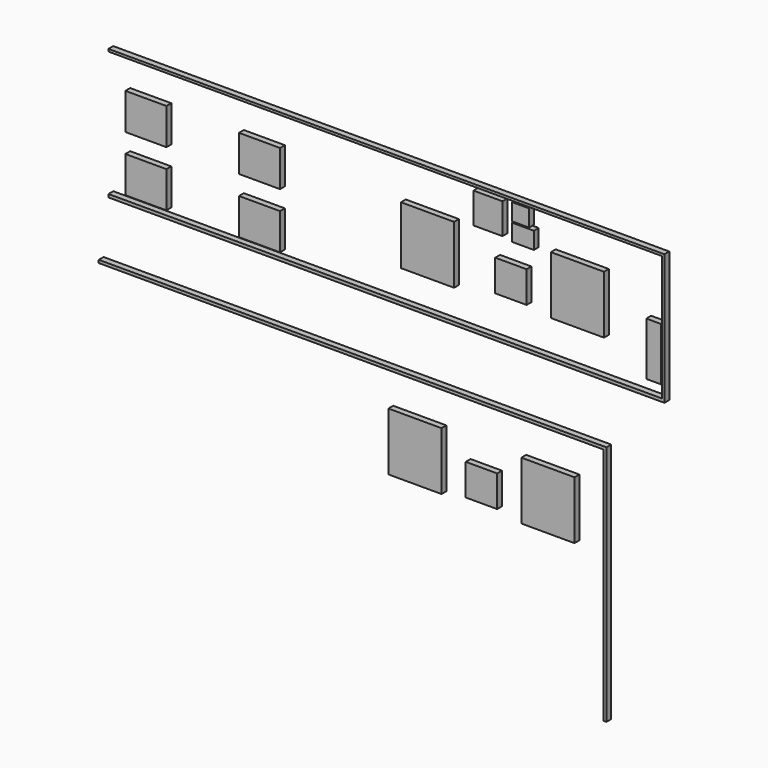
from build123d import *

# Parameters (mm, degrees)
F0_W     = 220
F0_H     = 240
F0_W_2   = 10
F0_H_2   = 518.406718
F0_H_3   = 10
F0_W_3   = 2290
F0_H_4   = 12.703896
F0_W_4   = 130
F0_H_5   = 130
F0_W_5   = 120
F0_H_6   = 127
F0_W_6   = 90
F0_H_7   = 70
F0_W_7   = 70
F0_W_8   = 60
F0_H_8   = 220
F0_W_9   = 170
F0_H_9   = 150
F0_W_10  = 12
F0_H_10  = 12
F0_W_11  = 2088
F0_H_11  = 988
F1_DEPTH = 25


with BuildPart() as f1:
    # F0 (on Front) → F1 (new body)
    with BuildSketch(Plane.XZ):
        with Locations((110, 0)):
            Rectangle(F0_W, F0_H)
        with Locations((465, -4.203359)):
            Rectangle(F0_W_2, F0_H_2)
        with Locations((465, 260)):
            Rectangle(F0_W_2, F0_H_3)
        with Locations((-685, 260)):
            Rectangle(F0_W_3, F0_H_3)
        with Locations((465, -269.758666)):
            Rectangle(F0_W_2, F0_H_4)
        with Locations((-685, -269.758666)):
            Rectangle(F0_W_3, F0_H_4)
        with Locations((-165, -40)):
            Rectangle(F0_W_4, F0_H_5)
        with Locations((-260, 176.5)):
            Rectangle(F0_W_5, F0_H_6)
        with Locations((-115, 140)):
            Rectangle(F0_W_6, F0_H_7)
        with Locations((-125, 215)):
            Rectangle(F0_W_7, F0_H_7)
        with Locations((425, -103.406718)):
            Rectangle(F0_W_8, F0_H_8)
        with Locations((-510, -20)):
            Rectangle(F0_W, F0_H)
        with Locations((-1205, 60)):
            Rectangle(F0_W_9, F0_H_9)
        with Locations((-1205, -170)):
            Rectangle(F0_W_9, F0_H_9)
        with Locations((224, -522.110614)):
            Rectangle(F0_W_10, F0_H_10)
        with Locations((-826, -522.110614)):
            Rectangle(F0_W_11, F0_H_10)
        with Locations((224, -1022.110614)):
            Rectangle(F0_W_10, F0_H_11)
        with Locations((-562, -788.110614)):
            Rectangle(F0_W, F0_H)
        with Locations((-12, -788.110614)):
            Rectangle(F0_W, F0_H)
        with Locations((-287, -823.110614)):
            Rectangle(F0_W_4, F0_H_5)
        with Locations((-1675, 60)):
            Rectangle(F0_W_9, F0_H_9)
        with Locations((-1675, -170)):
            Rectangle(F0_W_9, F0_H_9)
    extrude(amount=F1_DEPTH)


solid = f1.part
